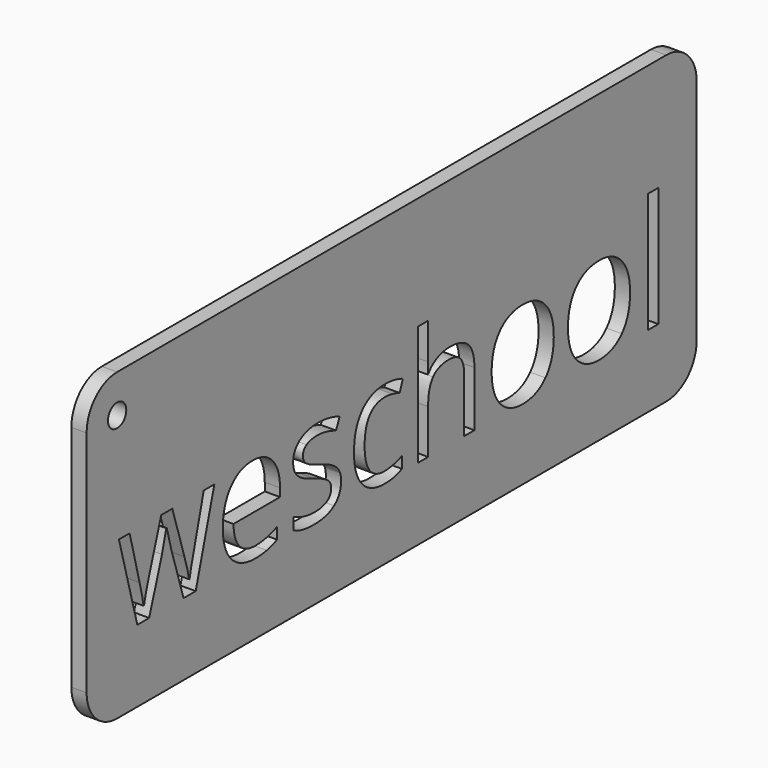
from build123d import *

# Parameters (mm, degrees)
F0_W     = 1.6794304821
F0_H     = 15.7361665408
F0_R     = 1.5
F1_DEPTH = 2


with BuildPart() as f1:
    # F0 (on Right) → F1 (new body)
    with BuildSketch(Plane.YZ):
        with BuildLine():
            ThreePointArc((0, 5), (1.4644660941, 1.4644660941), (5, 0))
            Line((5, 0), (95, 0))
            ThreePointArc((95, 0), (98.5355339059, 1.4644660941), (100, 5))
            Line((100, 5), (100, 35))
            ThreePointArc((100, 35), (98.5355339059, 38.5355339059), (95, 40))
            Line((95, 40), (5, 40))
            ThreePointArc((5, 40), (1.4644660941, 38.5355339059), (0, 35))
            Line((0, 35), (0, 5))
        make_face()
        with BuildLine():
            Line((17.8821367447, 9.4695183263), (15.8888242649, 9.4695183263))
            Line((15.8888242649, 9.4695183263), (13.8566810226, 15.9704351637))
            add(Edge.make_bspline(
                [(13.8566810226, 15.9704351637), (13.6625272096, 16.5690760871), (13.1383119146, 18.6821167515)],
                knots=[0, 0, 0, 1, 1, 1], degree=2))
            Line((13.1383119146, 18.6821167515), (13.0574144925, 18.6821167515))
            add(Edge.make_bspline(
                [(13.0574144925, 18.6821167515), (12.6529273822, 16.9120811566), (12.3487530752, 15.9510197825)],
                knots=[0, 0, 0, 1, 1, 1], degree=2))
            Line((12.3487530752, 15.9510197825), (10.255127792, 9.4695183263))
            Line((10.255127792, 9.4695183263), (8.3135896624, 9.4695183263))
            Line((8.3135896624, 9.4695183263), (5.2912619739, 20.5524651497))
            Line((5.2912619739, 20.5524651497), (7.0515898781, 20.5524651497))
            add(Edge.make_bspline(
                [(7.0515898781, 20.5524651497), (8.1226717463, 16.3749222741), (8.6840998555, 14.1906918782)],
                knots=[0, 0, 0, 1, 1, 1], degree=2))
            add(Edge.make_bspline(
                [(8.6840998555, 14.1906918782), (9.2455279646, 12.0064614824), (9.3264253867, 11.2492616118)],
                knots=[0, 0, 0, 1, 1, 1], degree=2))
            Line((9.3264253867, 11.2492616118), (9.4073228088, 11.2492616118))
            add(Edge.make_bspline(
                [(9.4073228088, 11.2492616118), (9.5173433028, 11.8252512569), (9.7648894143, 12.7410100748)],
                knots=[0, 0, 0, 1, 1, 1], degree=2))
            add(Edge.make_bspline(
                [(9.7648894143, 12.7410100748), (10.0124355258, 13.6567688926), (10.1968816482, 14.1906918782)],
                knots=[0, 0, 0, 1, 1, 1], degree=2))
            Line((10.1968816482, 14.1906918782), (12.2290248905, 20.5524651497))
            Line((12.2290248905, 20.5524651497), (14.0475989386, 20.5524651497))
            Line((14.0475989386, 20.5524651497), (16.0312037278, 14.1906918782))
            add(Edge.make_bspline(
                [(16.0312037278, 14.1906918782), (16.5974856822, 12.4530152522), (16.798111289, 11.2686769931)],
                knots=[0, 0, 0, 1, 1, 1], degree=2))
            Line((16.798111289, 11.2686769931), (16.879008711, 11.2686769931))
            add(Edge.make_bspline(
                [(16.879008711, 11.2686769931), (16.9210753705, 11.6343333409), (17.0974317506, 12.3931511599)],
                knots=[0, 0, 0, 1, 1, 1], degree=2))
            add(Edge.make_bspline(
                [(17.0974317506, 12.3931511599), (17.2737881307, 13.1519689789), (19.2056185697, 20.5524651497)],
                knots=[0, 0, 0, 1, 1, 1], degree=2))
            Line((19.2056185697, 20.5524651497), (20.9432951958, 20.5524651497))
            Line((20.9432951958, 20.5524651497), (17.8821367447, 9.4695183263))
        make_face(mode=Mode.SUBTRACT)
        with BuildLine():
            add(Edge.make_bspline(
                [(29.5443091101, 9.4339234606), (28.7515143739, 9.2656568227), (27.6286581555, 9.2656568227)],
                knots=[0, 0, 0, 1, 1, 1], degree=2))
            add(Edge.make_bspline(
                [(27.6286581555, 9.2656568227), (25.1726124215, 9.2656568227), (23.7504357416, 10.7638770794)],
                knots=[0, 0, 0, 1, 1, 1], degree=2))
            add(Edge.make_bspline(
                [(23.7504357416, 10.7638770794), (22.3282590616, 12.2620973361), (22.3282590616, 14.9187686769)],
                knots=[0, 0, 0, 1, 1, 1], degree=2))
            add(Edge.make_bspline(
                [(22.3282590616, 14.9187686769), (22.3282590616, 17.6013271927), (23.6485049898, 19.178826923)],
                knots=[0, 0, 0, 1, 1, 1], degree=2))
            add(Edge.make_bspline(
                [(23.6485049898, 19.178826923), (24.9687509179, 20.7563266533), (27.1950479733, 20.7563266533)],
                knots=[0, 0, 0, 1, 1, 1], degree=2))
            add(Edge.make_bspline(
                [(27.1950479733, 20.7563266533), (29.2757296689, 20.7563266533), (30.4891909999, 19.3859243235)],
                knots=[0, 0, 0, 1, 1, 1], degree=2))
            add(Edge.make_bspline(
                [(30.4891909999, 19.3859243235), (31.7026523309, 18.0155219936), (31.7026523309, 15.769809557)],
                knots=[0, 0, 0, 1, 1, 1], degree=2))
            Line((31.7026523309, 15.769809557), (31.7026523309, 14.7084353795))
            Line((31.7026523309, 14.7084353795), (24.0691715845, 14.7084353795))
            add(Edge.make_bspline(
                [(24.0691715845, 14.7084353795), (24.1209459346, 12.7571895592), (25.0561201338, 11.7459717833)],
                knots=[0, 0, 0, 1, 1, 1], degree=2))
            add(Edge.make_bspline(
                [(25.0561201338, 11.7459717833), (25.9912943329, 10.7347540075), (27.6901401963, 10.7347540075)],
                knots=[0, 0, 0, 1, 1, 1], degree=2))
            add(Edge.make_bspline(
                [(27.6901401963, 10.7347540075), (29.4795911725, 10.7347540075), (31.2269754892, 11.4822461874)],
                knots=[0, 0, 0, 1, 1, 1], degree=2))
            Line((31.2269754892, 11.4822461874), (31.2269754892, 9.9840259307))
            add(Edge.make_bspline(
                [(31.2269754892, 9.9840259307), (30.3371038464, 9.6021900985), (29.5443091101, 9.4339234606)],
                knots=[0, 0, 0, 1, 1, 1], degree=2))
        make_face(mode=Mode.SUBTRACT)
        with BuildLine():
            add(Edge.make_bspline(
                [(41.0220353533, 14.3233636504), (41.7145172862, 13.5952868518), (41.7145172862, 12.4918460148)],
                knots=[0, 0, 0, 1, 1, 1], degree=2))
            add(Edge.make_bspline(
                [(41.7145172862, 12.4918460148), (41.7145172862, 10.9450873048), (40.5625379959, 10.1053720638)],
                knots=[0, 0, 0, 1, 1, 1], degree=2))
            add(Edge.make_bspline(
                [(40.5625379959, 10.1053720638), (39.4105587057, 9.2656568227), (37.3266411132, 9.2656568227)],
                knots=[0, 0, 0, 1, 1, 1], degree=2))
            add(Edge.make_bspline(
                [(37.3266411132, 9.2656568227), (35.122995336, 9.2656568227), (33.8901186237, 9.9646105494)],
                knots=[0, 0, 0, 1, 1, 1], degree=2))
            Line((33.8901186237, 9.9646105494), (33.8901186237, 11.52107695))
            add(Edge.make_bspline(
                [(33.8901186237, 11.52107695), (34.6893851537, 11.1165898396), (35.6035260231, 10.8852232125)],
                knots=[0, 0, 0, 1, 1, 1], degree=2))
            add(Edge.make_bspline(
                [(35.6035260231, 10.8852232125), (36.5176668925, 10.6538565854), (37.3687077726, 10.6538565854)],
                knots=[0, 0, 0, 1, 1, 1], degree=2))
            add(Edge.make_bspline(
                [(37.3687077726, 10.6538565854), (38.682481907, 10.6538565854), (39.3895253759, 11.0729052317)],
                knots=[0, 0, 0, 1, 1, 1], degree=2))
            add(Edge.make_bspline(
                [(39.3895253759, 11.0729052317), (40.0965688448, 11.491953878), (40.0965688448, 12.3527024488)],
                knots=[0, 0, 0, 1, 1, 1], degree=2))
            add(Edge.make_bspline(
                [(40.0965688448, 12.3527024488), (40.0965688448, 12.9998818254), (39.5367586841, 13.4593791827)],
                knots=[0, 0, 0, 1, 1, 1], degree=2))
            add(Edge.make_bspline(
                [(39.5367586841, 13.4593791827), (38.9769485234, 13.9188765401), (37.3460564945, 14.5466405353)],
                knots=[0, 0, 0, 1, 1, 1], degree=2))
            add(Edge.make_bspline(
                [(37.3460564945, 14.5466405353), (35.7992977845, 15.1226301805), (35.1472645626, 15.5530044659)],
                knots=[0, 0, 0, 1, 1, 1], degree=2))
            add(Edge.make_bspline(
                [(35.1472645626, 15.5530044659), (34.4952313407, 15.9833787513), (34.1764954978, 16.528627376)],
                knots=[0, 0, 0, 1, 1, 1], degree=2))
            add(Edge.make_bspline(
                [(34.1764954978, 16.528627376), (33.8577596548, 17.0738760008), (33.8577596548, 17.8310758713)],
                knots=[0, 0, 0, 1, 1, 1], degree=2))
            add(Edge.make_bspline(
                [(33.8577596548, 17.8310758713), (33.8577596548, 19.1869166652), (34.9612004919, 19.9716216593)],
                knots=[0, 0, 0, 1, 1, 1], degree=2))
            add(Edge.make_bspline(
                [(34.9612004919, 19.9716216593), (36.0646413289, 20.7563266533), (37.9835281804, 20.7563266533)],
                knots=[0, 0, 0, 1, 1, 1], degree=2))
            add(Edge.make_bspline(
                [(37.9835281804, 20.7563266533), (39.7729791565, 20.7563266533), (41.4847686075, 20.0282498547)],
                knots=[0, 0, 0, 1, 1, 1], degree=2))
            Line((41.4847686075, 20.0282498547), (40.8861276842, 18.6627013702))
            add(Edge.make_bspline(
                [(40.8861276842, 18.6627013702), (39.2196407896, 19.3487115093), (37.8637999957, 19.3487115093)],
                knots=[0, 0, 0, 1, 1, 1], degree=2))
            add(Edge.make_bspline(
                [(37.8637999957, 19.3487115093), (36.669754046, 19.3487115093), (36.0630233804, 18.9749654194)],
                knots=[0, 0, 0, 1, 1, 1], degree=2))
            add(Edge.make_bspline(
                [(36.0630233804, 18.9749654194), (35.4562927149, 18.6012193294), (35.4562927149, 17.9443322622)],
                knots=[0, 0, 0, 1, 1, 1], degree=2))
            add(Edge.make_bspline(
                [(35.4562927149, 17.9443322622), (35.4562927149, 17.4977784924), (35.6844234452, 17.1855144432)],
                knots=[0, 0, 0, 1, 1, 1], degree=2))
            add(Edge.make_bspline(
                [(35.6844234452, 17.1855144432), (35.9125541754, 16.873250394), (36.4173540891, 16.5901094168)],
                knots=[0, 0, 0, 1, 1, 1], degree=2))
            add(Edge.make_bspline(
                [(36.4173540891, 16.5901094168), (36.9221540028, 16.3069684396), (38.3588922188, 15.769809557)],
                knots=[0, 0, 0, 1, 1, 1], degree=2))
            add(Edge.make_bspline(
                [(38.3588922188, 15.769809557), (40.3295534204, 15.051440449), (41.0220353533, 14.3233636504)],
                knots=[0, 0, 0, 1, 1, 1], degree=2))
        make_face(mode=Mode.SUBTRACT)
        with BuildLine():
            add(Edge.make_bspline(
                [(51.6746078913, 9.8448823647), (50.5646952605, 9.2656568227), (48.8755570877, 9.2656568227)],
                knots=[0, 0, 0, 1, 1, 1], degree=2))
            add(Edge.make_bspline(
                [(48.8755570877, 9.2656568227), (46.4680498069, 9.2656568227), (45.1478038788, 10.747697595)],
                knots=[0, 0, 0, 1, 1, 1], degree=2))
            add(Edge.make_bspline(
                [(45.1478038788, 10.747697595), (43.8275579506, 12.2297383673), (43.8275579506, 14.941419955)],
                knots=[0, 0, 0, 1, 1, 1], degree=2))
            add(Edge.make_bspline(
                [(43.8275579506, 14.941419955), (43.8275579506, 17.7210553773), (45.1688372085, 19.2386910153)],
                knots=[0, 0, 0, 1, 1, 1], degree=2))
            add(Edge.make_bspline(
                [(45.1688372085, 19.2386910153), (46.5101164664, 20.7563266533), (48.9855775817, 20.7563266533)],
                knots=[0, 0, 0, 1, 1, 1], degree=2))
            add(Edge.make_bspline(
                [(48.9855775817, 20.7563266533), (49.7848441118, 20.7563266533), (50.5841106418, 20.5832061701)],
                knots=[0, 0, 0, 1, 1, 1], degree=2))
            add(Edge.make_bspline(
                [(50.5841106418, 20.5832061701), (51.3833771718, 20.4100856869), (51.8364027354, 20.1771011113)],
                knots=[0, 0, 0, 1, 1, 1], degree=2))
            Line((51.8364027354, 20.1771011113), (51.3218951311, 18.7533064829))
            add(Edge.make_bspline(
                [(51.3218951311, 18.7533064829), (50.7653208672, 18.9765833678), (50.1084338, 19.1221987276)],
                knots=[0, 0, 0, 1, 1, 1], degree=2))
            add(Edge.make_bspline(
                [(50.1084338, 19.1221987276), (49.4515467328, 19.2678140873), (48.9467468191, 19.2678140873)],
                knots=[0, 0, 0, 1, 1, 1], degree=2))
            add(Edge.make_bspline(
                [(48.9467468191, 19.2678140873), (45.5684704735, 19.2678140873), (45.5684704735, 14.9608353363)],
                knots=[0, 0, 0, 1, 1, 1], degree=2))
            add(Edge.make_bspline(
                [(45.5684704735, 14.9608353363), (45.5684704735, 12.9189844033), (46.3920062302, 11.8268692054)],
                knots=[0, 0, 0, 1, 1, 1], degree=2))
            add(Edge.make_bspline(
                [(46.3920062302, 11.8268692054), (47.2155419868, 10.7347540075), (48.8334904282, 10.7347540075)],
                knots=[0, 0, 0, 1, 1, 1], degree=2))
            add(Edge.make_bspline(
                [(48.8334904282, 10.7347540075), (50.218454294, 10.7347540075), (51.6746078913, 11.3301590339)],
                knots=[0, 0, 0, 1, 1, 1], degree=2))
            Line((51.6746078913, 11.3301590339), (51.6746078913, 9.8448823647))
        make_face(mode=Mode.SUBTRACT)
        with BuildLine():
            Line((63.5697648323, 9.4695183263), (61.8903343501, 9.4695183263))
            Line((61.8903343501, 9.4695183263), (61.8903343501, 16.6402658185))
            add(Edge.make_bspline(
                [(61.8903343501, 16.6402658185), (61.8903343501, 17.9928707155), (61.273895994, 18.6610834218)],
                knots=[0, 0, 0, 1, 1, 1], degree=2))
            add(Edge.make_bspline(
                [(61.273895994, 18.6610834218), (60.6574576378, 19.329296128), (59.3404476065, 19.329296128)],
                knots=[0, 0, 0, 1, 1, 1], degree=2))
            add(Edge.make_bspline(
                [(59.3404476065, 19.329296128), (57.5930632898, 19.329296128), (56.7889429145, 18.3779424445)],
                knots=[0, 0, 0, 1, 1, 1], degree=2))
            add(Edge.make_bspline(
                [(56.7889429145, 18.3779424445), (55.9848225391, 17.426588761), (55.9848225391, 15.2650096433)],
                knots=[0, 0, 0, 1, 1, 1], degree=2))
            Line((55.9848225391, 15.2650096433), (55.9848225391, 9.4695183263))
            Line((55.9848225391, 9.4695183263), (54.305392057, 9.4695183263))
            Line((54.305392057, 9.4695183263), (54.305392057, 25.2056848671))
            Line((54.305392057, 25.2056848671), (55.9848225391, 25.2056848671))
            Line((55.9848225391, 25.2056848671), (55.9848225391, 20.4424446557))
            add(Edge.make_bspline(
                [(55.9848225391, 20.4424446557), (55.9848225391, 19.5816960849), (55.903925117, 19.0154141304)],
                knots=[0, 0, 0, 1, 1, 1], degree=2))
            Line((55.903925117, 19.0154141304), (56.0042379204, 19.0154141304))
            add(Edge.make_bspline(
                [(56.0042379204, 19.0154141304), (56.4993301435, 19.8146806605), (57.4150889613, 20.2741780178)],
                knots=[0, 0, 0, 1, 1, 1], degree=2))
            add(Edge.make_bspline(
                [(57.4150889613, 20.2741780178), (58.3308477791, 20.7336753752), (59.5022424507, 20.7336753752)],
                knots=[0, 0, 0, 1, 1, 1], degree=2))
            add(Edge.make_bspline(
                [(59.5022424507, 20.7336753752), (61.534385693, 20.7336753752), (62.5520752627, 19.7677601557)],
                knots=[0, 0, 0, 1, 1, 1], degree=2))
            add(Edge.make_bspline(
                [(62.5520752627, 19.7677601557), (63.5697648323, 18.8018449362), (63.5697648323, 16.6985119624)],
                knots=[0, 0, 0, 1, 1, 1], degree=2))
            Line((63.5697648323, 16.6985119624), (63.5697648323, 9.4695183263))
        make_face(mode=Mode.SUBTRACT)
        with BuildLine():
            add(Edge.make_bspline(
                [(75.210903868, 19.2079499949), (76.5813061978, 17.6595733365), (76.5813061978, 15.0223173771)],
                knots=[0, 0, 0, 1, 1, 1], degree=2))
            add(Edge.make_bspline(
                [(76.5813061978, 15.0223173771), (76.5813061978, 12.3106357894), (75.2173756618, 10.788146306)],
                knots=[0, 0, 0, 1, 1, 1], degree=2))
            add(Edge.make_bspline(
                [(75.2173756618, 10.788146306), (73.8534451257, 9.2656568227), (71.4459378449, 9.2656568227)],
                knots=[0, 0, 0, 1, 1, 1], degree=2))
            add(Edge.make_bspline(
                [(71.4459378449, 9.2656568227), (69.9574252788, 9.2656568227), (68.8054459886, 9.9646105494)],
                knots=[0, 0, 0, 1, 1, 1], degree=2))
            add(Edge.make_bspline(
                [(68.8054459886, 9.9646105494), (67.6534666983, 10.663564276), (67.0257027031, 11.9676307198)],
                knots=[0, 0, 0, 1, 1, 1], degree=2))
            add(Edge.make_bspline(
                [(67.0257027031, 11.9676307198), (66.3979387078, 13.2716971635), (66.3979387078, 15.0223173771)],
                knots=[0, 0, 0, 1, 1, 1], degree=2))
            add(Edge.make_bspline(
                [(66.3979387078, 15.0223173771), (66.3979387078, 17.730763068), (67.7537795017, 19.2435448607)],
                knots=[0, 0, 0, 1, 1, 1], degree=2))
            add(Edge.make_bspline(
                [(67.7537795017, 19.2435448607), (69.1096202956, 20.7563266533), (71.5171275763, 20.7563266533)],
                knots=[0, 0, 0, 1, 1, 1], degree=2))
            add(Edge.make_bspline(
                [(71.5171275763, 20.7563266533), (73.8405015381, 20.7563266533), (75.210903868, 19.2079499949)],
                knots=[0, 0, 0, 1, 1, 1], degree=2))
        make_face(mode=Mode.SUBTRACT)
        with BuildLine():
            add(Edge.make_bspline(
                [(87.7208812167, 19.2079499949), (89.0912835466, 17.6595733365), (89.0912835466, 15.0223173771)],
                knots=[0, 0, 0, 1, 1, 1], degree=2))
            add(Edge.make_bspline(
                [(89.0912835466, 15.0223173771), (89.0912835466, 12.3106357894), (87.7273530105, 10.788146306)],
                knots=[0, 0, 0, 1, 1, 1], degree=2))
            add(Edge.make_bspline(
                [(87.7273530105, 10.788146306), (86.3634224744, 9.2656568227), (83.9559151936, 9.2656568227)],
                knots=[0, 0, 0, 1, 1, 1], degree=2))
            add(Edge.make_bspline(
                [(83.9559151936, 9.2656568227), (82.4674026276, 9.2656568227), (81.3154233373, 9.9646105494)],
                knots=[0, 0, 0, 1, 1, 1], degree=2))
            add(Edge.make_bspline(
                [(81.3154233373, 9.9646105494), (80.163444047, 10.663564276), (79.5356800518, 11.9676307198)],
                knots=[0, 0, 0, 1, 1, 1], degree=2))
            add(Edge.make_bspline(
                [(79.5356800518, 11.9676307198), (78.9079160565, 13.2716971635), (78.9079160565, 15.0223173771)],
                knots=[0, 0, 0, 1, 1, 1], degree=2))
            add(Edge.make_bspline(
                [(78.9079160565, 15.0223173771), (78.9079160565, 17.730763068), (80.2637568504, 19.2435448607)],
                knots=[0, 0, 0, 1, 1, 1], degree=2))
            add(Edge.make_bspline(
                [(80.2637568504, 19.2435448607), (81.6195976443, 20.7563266533), (84.027104925, 20.7563266533)],
                knots=[0, 0, 0, 1, 1, 1], degree=2))
            add(Edge.make_bspline(
                [(84.027104925, 20.7563266533), (86.3504788869, 20.7563266533), (87.7208812167, 19.2079499949)],
                knots=[0, 0, 0, 1, 1, 1], degree=2))
        make_face(mode=Mode.SUBTRACT)
        with Locations((92.8756649509, 17.3376015967)):
            Rectangle(F0_W, F0_H, mode=Mode.SUBTRACT)
        with Locations((5, 35)):
            Circle(F0_R, mode=Mode.SUBTRACT)
    extrude(amount=F1_DEPTH)


solid = f1.part
